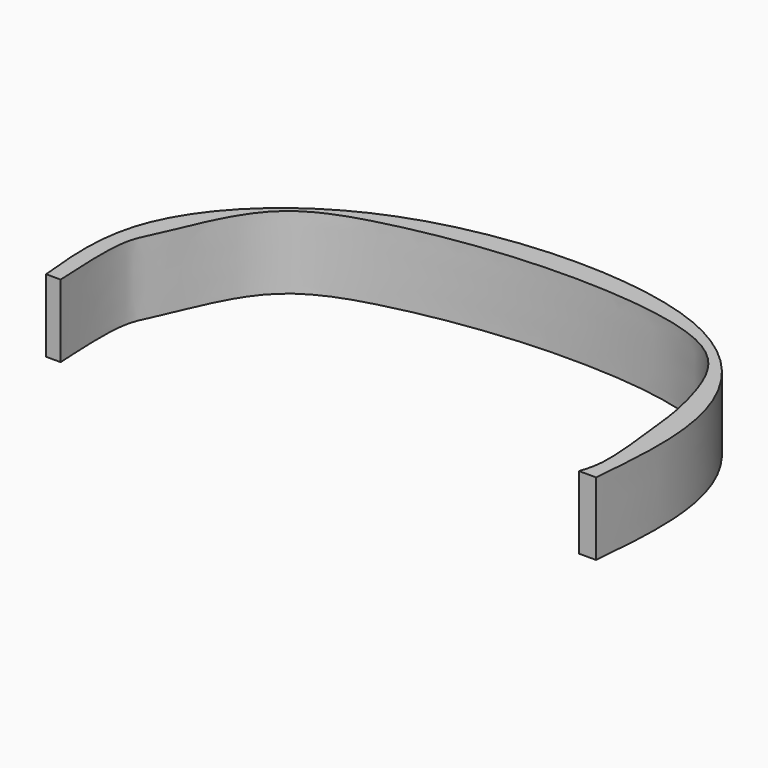
from build123d import *

# Parameters (mm, degrees)
F0_W     = 152.4000018835
F0_H     = 152.1690934896
F1_DEPTH = 19.05
F3_DEPTH = 25.4
F4_W     = 152.4000018835
F4_H     = 76.0845467448
F5_DEPTH = 25.4
F7_DEPTH = 25.4
F9_DEPTH = 25.4


with BuildPart() as f1:
    # F0 (on Top) → F1 (new body)
    with BuildSketch(Plane.XY):
        Rectangle(F0_W, F0_H)
    extrude(amount=F1_DEPTH)

    # F2 (on face) → F3 (cut)
    with BuildSketch(Plane.XY.offset(19.05)):
        with BuildLine():
            add(Edge.make_bspline(
                [(-68.5800015926, -76.0845467448), (-69.0224632706, -67.8373621128), (-69.739652291, -54.4694467387), (-65.1817235523, -47.595943334), (-56.6245567483, -23.2125189268), (-32.8999857773, -14.4339303364), (3.4107855833, -8.4963212674), (43.7656966724, -11.0393144946), (61.9414212277, -22.4900756246), (66.4946084633, -44.8709469992), (66.563125679, -47.5923096467), (69.5995975647, -69.1516364137), (67.8522564017, -74.1885963654), (67.1945437789, -76.0845467448)],
                knots=[0, 0, 0, 0, 0.0963244387, 0.1561329112, 0.2568828885, 0.3591830631, 0.4876990826, 0.6196551709, 0.7142972696, 0.8074403349, 0.8477663858, 0.9426980994, 1, 1, 1, 1], degree=3))
            Line((-68.5800015926, -76.0845467448), (67.1945437789, -76.0845467448))
        make_face()
    extrude(amount=-F3_DEPTH, mode=Mode.SUBTRACT)

    # F4 (on face) → F5 (cut)
    with BuildSketch(Plane.XY.offset(19.05)):
        with Locations((0, 38.0422733724)):
            Rectangle(F4_W, F4_H)
    extrude(amount=-F5_DEPTH, mode=Mode.SUBTRACT)

    # F6 (on face) → F7 (cut)
    with BuildSketch(Plane.XY.offset(19.05)):
        with BuildLine():
            Line((-76.2000009418, 0), (-76.2000009418, -46.0663624108))
            add(Edge.make_bspline(
                [(-76.2000009418, -46.0663624108), (-73.9773501623, -39.7419346694), (-69.3691827834, -26.6296536587), (-50.403149618, -10.4409445978), (-17.467478098, -2.0971394015), (32.0120579089, -1.0880919646), (70.982150833, -14.6249224593), (74.5367808692, -35.8869155423), (76.2000009418, -45.8354540169)],
                knots=[0, 0, 0, 0, 0.1331033168, 0.2759598441, 0.4481736178, 0.6600598946, 0.8409411947, 1, 1, 1, 1], degree=3))
            Line((76.2000009418, -45.8354540169), (76.2000009418, 0))
            Line((76.2000009418, 0), (-76.2000009418, 0))
        make_face()
    extrude(amount=-F7_DEPTH, mode=Mode.SUBTRACT)

    # F8 (on face) → F9 (cut)
    with BuildSketch(Plane.XY.offset(19.05)):
        with BuildLine():
            Line((-76.2000009418, -76.0845467448), (-72.3900012672, -76.0845467448))
            add(Edge.make_bspline(
                [(-72.3900012672, -76.0845467448), (-73.4121351312, -65.8697982695), (-75.754661069, -42.4596422294), (-35.0290625963, -2.2617590441), (48.3839982672, -1.4326701301), (75.0145117466, -38.0786066124), (72.7945573953, -63.512843442), (71.6972723603, -76.0845467448)],
                knots=[0, 0, 0, 0, 0.1642700153, 0.3764739485, 0.636921947, 0.8205367989, 1, 1, 1, 1], degree=3))
            Line((71.6972723603, -76.0845467448), (76.2000009418, -76.0845467448))
            Line((76.2000009418, -76.0845467448), (76.2000009418, -45.8354540169))
            add(Edge.make_bspline(
                [(-76.2000009418, -46.0663624108), (-73.9773501623, -39.7419346694), (-69.3691827834, -26.6296536587), (-50.403149618, -10.4409445978), (-17.467478098, -2.0971394015), (32.0120579089, -1.0880919646), (70.982150833, -14.6249224593), (74.5367808692, -35.8869155423), (76.2000009418, -45.8354540169)],
                knots=[0, 0, 0, 0, 0.1331033168, 0.2759598441, 0.4481736178, 0.6600598946, 0.8409411947, 1, 1, 1, 1], degree=3))
            Line((-76.2000009418, -46.0663624108), (-76.2000009418, -76.0845467448))
        make_face()
    extrude(amount=-F9_DEPTH, mode=Mode.SUBTRACT)


solid = f1.part
